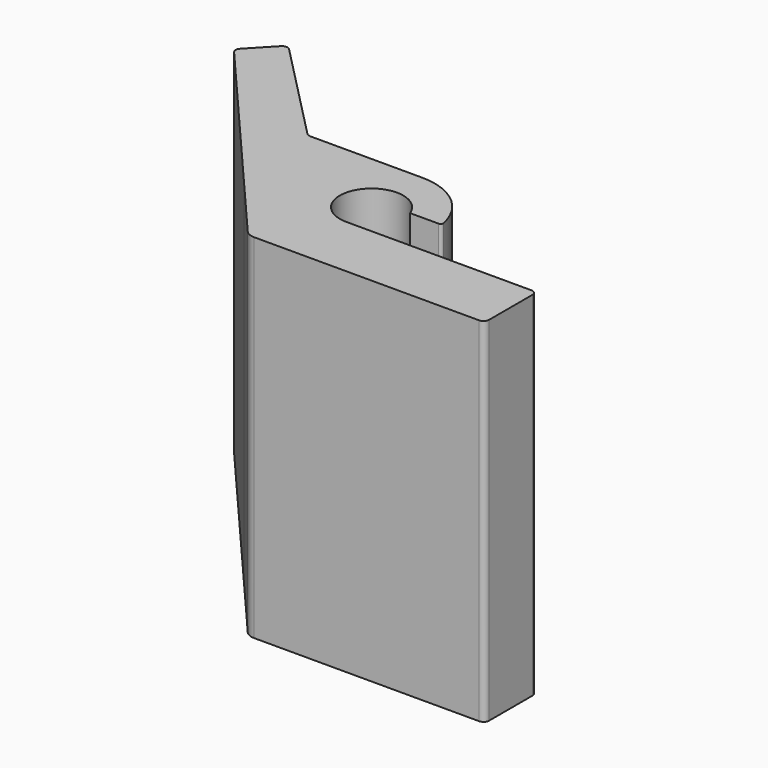
from build123d import *

# Parameters (mm, degrees)
F1_DEPTH = 19


with BuildPart() as f1:
    # F0 (on Top) → F1 (new body)
    with BuildSketch(Plane.XY):
        with BuildLine():
            Line((-10.857602, 12.634995), (-3.01624, 3.51))
            Line((-3.01624, 3.51), (2.46, 3.51))
            ThreePointArc((2.46, 3.51), (1.081572, 6.200449), (4.079259, 5.81))
            Line((4.079259, 5.81), (5.613305, 5.81))
            ThreePointArc((5.613305, 5.81), (5.720735, 5.86112), (5.748827, 5.976728))
            ThreePointArc((5.748827, 5.976728), (4.579125, 7.897384), (2.46, 8.65))
            Line((2.46, 8.65), (-3.535636, 8.65))
            ThreePointArc((-3.535636, 8.65), (-3.690709, 8.681283), (-3.821527, 8.770239))
            Line((-3.821527, 8.770239), (-9.227267, 14.294424))
            ThreePointArc((-9.227267, 14.294424), (-9.444093, 14.384594), (-9.659444, 14.290955))
            Line((-9.659444, 14.290955), (-10.84783, 13.03687))
            ThreePointArc((-10.84783, 13.03687), (-10.929982, 12.837811), (-10.857602, 12.634995))
        make_face()
        with BuildLine():
            ThreePointArc((-0.209485, 0.243778), (0.029321, 0.063857), (0.321421, 0))
            Line((0.321421, 0), (12.44, 0))
            ThreePointArc((12.44, 0), (12.652132, 0.087868), (12.74, 0.3))
            Line((12.74, 0.3), (12.74, 3.21))
            ThreePointArc((12.74, 3.21), (12.652132, 3.422132), (12.44, 3.51))
            Line((12.44, 3.51), (2.46, 3.51))
            Line((2.46, 3.51), (-3.01624, 3.51))
            Line((-3.01624, 3.51), (-0.209485, 0.243778))
        make_face()
    extrude(amount=F1_DEPTH)


solid = f1.part
